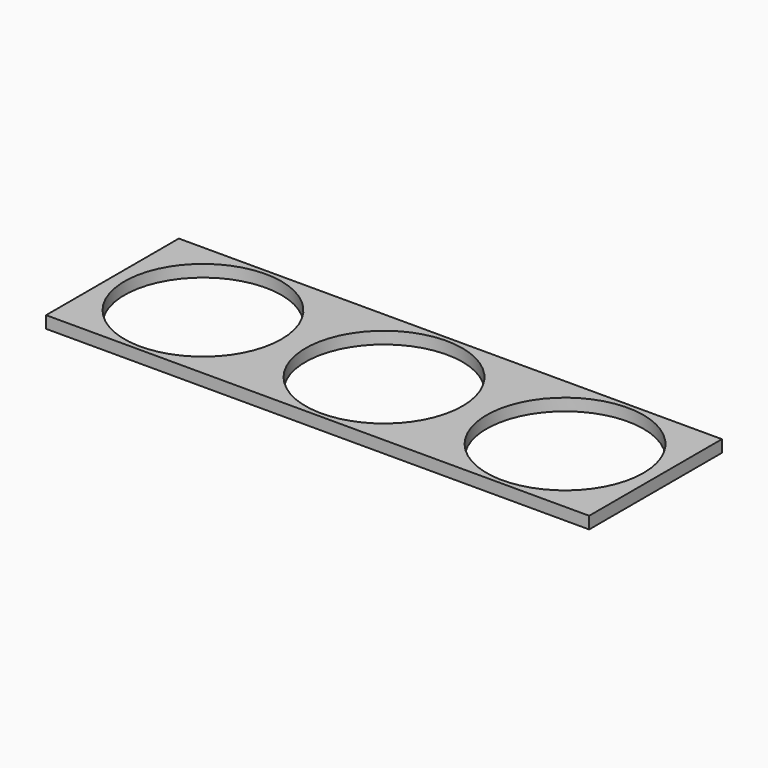
from build123d import *

# Parameters (mm, degrees)
F0_W     = 180
F0_H     = 55
F1_DEPTH = 4
F2_R     = 26
F3_DEPTH = 4.001


with BuildPart() as f1:
    # F0 (on Top) → F1 (new body)
    with BuildSketch(Plane.XY):
        with Locations((90, 27.5)):
            Rectangle(F0_W, F0_H)
    extrude(amount=F1_DEPTH)

    # F2 (on face) → F3 (cut, through all)
    with BuildSketch(Plane.XY.offset(4)):
        with Locations((30, 27.5)):
            Circle(F2_R)
        with Locations((90, 27.5)):
            Circle(F2_R)
        with Locations((150, 27.5)):
            Circle(F2_R)
    extrude(amount=-F3_DEPTH, mode=Mode.SUBTRACT)


solid = f1.part
